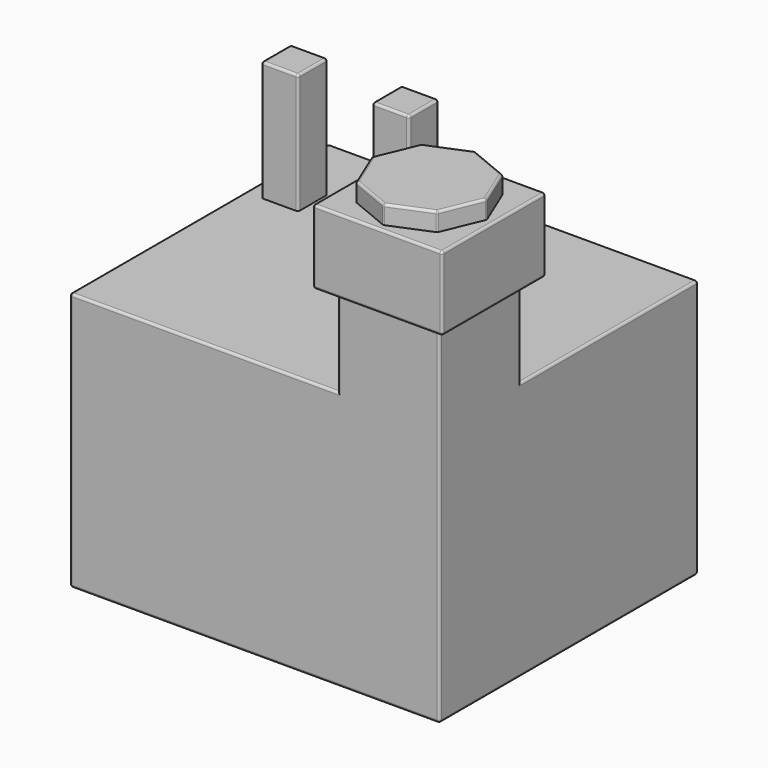
from build123d import *

# Parameters (mm, degrees)
F0_W     = 127
F0_H     = 111.125
F1_DEPTH = 88.9
F2_W     = 34.925
F2_H     = 34.925
F3_DEPTH = 31.75
F4_W     = 44.45
F4_H     = 44.45
F5_DEPTH = 25.4
F7_DEPTH = 6.35
F8_W     = 12.7
F8_H     = 12.7
F9_DEPTH = 41.275
F10_R    = 0.8255


with BuildPart() as f1:
    # F0 (on Top) → F1 (new body)
    with BuildSketch(Plane.XY):
        Rectangle(F0_W, F0_H)
    extrude(amount=F1_DEPTH)

    # F2 (on face) → F3 (join)
    with BuildSketch(Plane.XY.offset(88.9)):
        with Locations((46.0375, -38.1)):
            Rectangle(F2_W, F2_H)
    extrude(amount=F3_DEPTH)

    # F4 (on face) → F5 (join)
    with BuildSketch(Plane.XY.offset(120.65)):
        with Locations((46.0375, -38.1)):
            Rectangle(F4_W, F4_H)
    extrude(amount=F5_DEPTH)

    # F6 (on face) → F7 (join)
    with BuildSketch(Plane.XY.offset(146.05)):
        Polygon((60.0175166498, -52.0800166498), (65.8082291484, -38.1), (60.0175166498, -24.1199833502), (46.0375, -18.3292708516), (32.0574833502, -24.1199833502), (26.2667708516, -38.1), (32.0574833502, -52.0800166498), (46.0375, -57.8707291484), align=None)
    extrude(amount=F7_DEPTH)

    # F8 (on face) → F9 (join)
    with BuildSketch(Plane.XY.offset(88.9)):
        with Locations((-51.5943879418, 26.04008)):
            Rectangle(F8_W, F8_H)
        with Locations((-13.4957394752, 26.04008)):
            Rectangle(F8_W, F8_H)
    extrude(amount=F9_DEPTH)

    # F10
    f10_edges = [f1.edges().sort_by_distance(p)[0] for p in [
        (-17.4625, -55.5625, 88.9),
        (-63.5, 0, 88.9),
        (-63.5, -55.5625, 44.45),
        (28.575, -55.5625, 104.775),
        (63.5, -55.5625, 60.325),
        (28.575, -20.6375, 104.775),
        (23.8125, -15.875, 133.35),
        (23.8125, -60.325, 133.35),
        (68.2625, -60.325, 133.35),
        (46.0375, -60.325, 120.65),
        (23.8125, -38.1, 120.65),
        (46.0375, -60.325, 146.05),
        (23.8125, -38.1, 146.05),
        (68.2625, -38.1, 146.05),
        (46.0375, -15.875, 146.05),
        (53.027508, -21.224627, 152.4),
        (62.912873, -31.109992, 152.4),
        (62.912873, -45.090008, 152.4),
        (53.027508, -54.975373, 152.4),
        (39.047492, -54.975373, 152.4),
        (29.162127, -45.090008, 152.4),
        (29.162127, -31.109992, 152.4),
        (39.047492, -21.224627, 152.4),
        (32.057483, -52.080017, 149.225),
        (46.0375, -57.870729, 149.225),
        (26.266771, -38.1, 149.225),
        (60.017517, -52.080017, 149.225),
        (65.808229, -38.1, 149.225),
        (60.017517, -24.119983, 149.225),
        (46.0375, -18.329271, 149.225),
        (32.057483, -24.119983, 149.225),
        (68.2625, -15.875, 133.35),
        (63.5, -20.6375, 104.775),
        (68.2625, -38.1, 120.65),
        (46.0375, -15.875, 120.65),
        (63.5, 17.4625, 88.9),
        (0, 55.5625, 88.9),
        (63.5, 55.5625, 44.45),
        (-57.944388, 32.39008, 109.5375),
        (-45.244388, 32.39008, 109.5375),
        (-57.944388, 19.69008, 109.5375),
        (-57.944388, 26.04008, 130.175),
        (-51.594388, 32.39008, 130.175),
        (-45.244388, 26.04008, 130.175),
        (-51.594388, 19.69008, 130.175),
        (-19.845739, 32.39008, 109.5375),
        (-7.145739, 32.39008, 109.5375),
        (-19.845739, 26.04008, 130.175),
        (-13.495739, 32.39008, 130.175),
        (-7.145739, 26.04008, 130.175),
        (-13.495739, 19.69008, 130.175),
        (-19.845739, 19.69008, 109.5375),
        (-7.145739, 19.69008, 109.5375),
        (-45.244388, 19.69008, 109.5375),
        (-63.5, 55.5625, 44.45),
        (63.5, 0, 0),
        (0, 55.5625, 0),
        (0, -55.5625, 0),
        (-63.5, 0, 0),
    ]]
    fillet(f10_edges, radius=F10_R)


solid = f1.part
